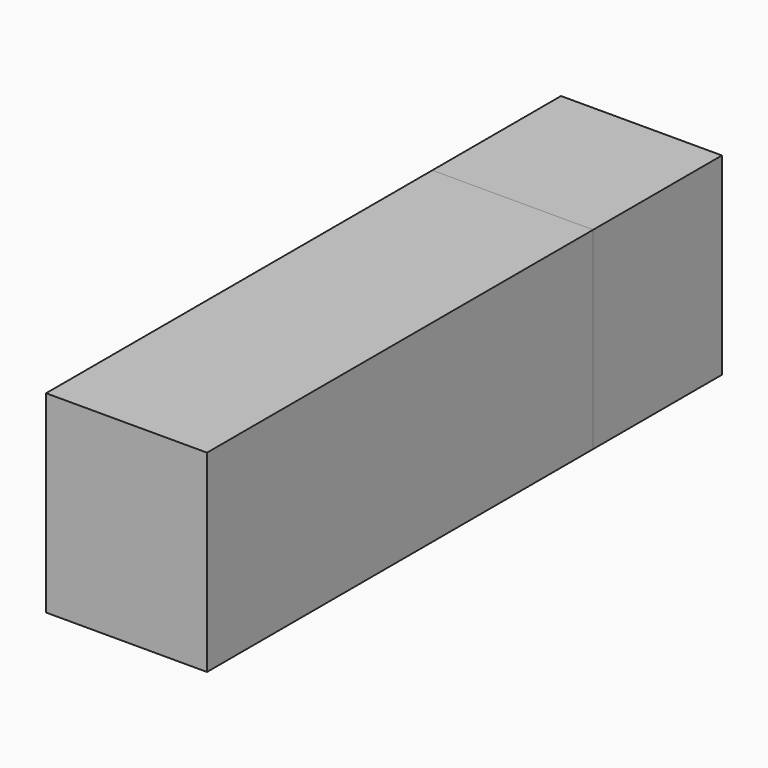
from build123d import *

# Parameters (mm, degrees)
F0_W      = 10
F0_H      = 12
F1_DEPTH  = 30
F1_FACE_W = 10
F1_FACE_H = 12
F2_DEPTH  = 10


with BuildPart() as f1:
    # F0 (on Front) → F1 (new body)
    with BuildSketch(Plane.XZ):
        with Locations((5, 6)):
            Rectangle(F0_W, F0_H)
    extrude(amount=F1_DEPTH)


with BuildPart() as f2:
    # F1_face (on face) → F2 (new body)
    with BuildSketch(Plane(origin=(5, 0, 6), x_dir=(1, 0, 0), z_dir=(0, 1, 0))):
        Rectangle(F1_FACE_W, F1_FACE_H)
    extrude(amount=F2_DEPTH)


solid = Compound([f1.part, f2.part])
